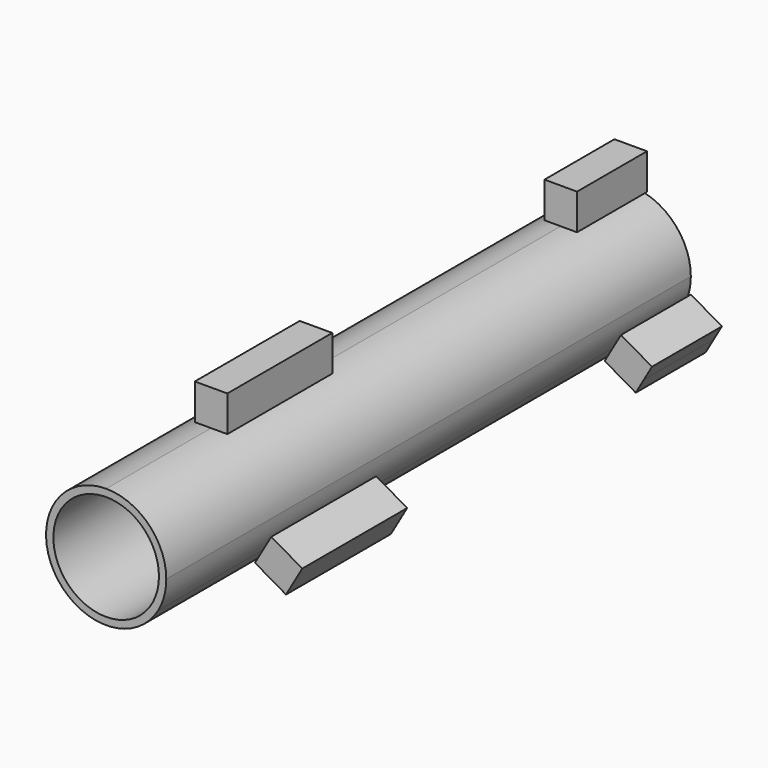
from build123d import *

# Parameters (mm, degrees)
F0_R      = 30.678650709
F1_DEPTH  = 381
F2_DEPTH  = 50.8
F3_START  = 177.8
F2_FACE_W = 18.9131628722
F2_FACE_H = 20.8084275999
F3_DEPTH  = 76.2


with BuildPart() as f1:
    # F0 (on Front) → F1 (new body)
    with BuildSketch(Plane.XZ):
        with BuildLine():
            ThreePointArc((30.2486148014, -17.4640458982), (33.7379459292, -9.040055366), (34.9280917964, 0))
            ThreePointArc((34.9280917964, 0), (24.6978905631, 24.6978905631), (0, 34.9280917964))
            ThreePointArc((0, 34.9280917964), (-30.2486148014, 17.4640458982), (-30.2486148014, -17.4640458982))
            ThreePointArc((-30.2486148014, -17.4640458982), (0, -34.9280917964), (30.2486148014, -17.4640458982))
        make_face()
        Circle(F0_R, mode=Mode.SUBTRACT)
    extrude(amount=F1_DEPTH)


with BuildPart() as f2:
    # F0 (on Front) → F2 (new body)
    with BuildSketch(Plane.XZ):
        Polygon((-9.4565814361, 34.9280917964), (0, 34.9280917964), (9.4565814361, 34.9280917964), (9.4565814361, 55.7365193963), (0, 55.7365193963), (-9.4565814361, 55.7365193963), align=None)
    extrude(amount=F2_DEPTH)


with BuildPart() as f2b:
    # F0 (on Front) → F2, piece 2 (new body)
    with BuildSketch(Plane.XZ):
        Polygon((34.9769055195, -9.2744061416), (30.2486148014, -17.4640458982), (25.5203240834, -25.6536856548), (43.5409509977, -36.0578994548), (48.2692417157, -27.8682596982), (52.9975324338, -19.6786199415), align=None)
    extrude(amount=F2_DEPTH)


with BuildPart() as f2c:
    # F0 (on Front) → F2, piece 3 (new body)
    with BuildSketch(Plane.XZ):
        Polygon((-25.5203240834, -25.6536856548), (-30.2486148014, -17.4640458982), (-34.9769055195, -9.2744061416), (-52.9975324338, -19.6786199415), (-48.2692417157, -27.8682596982), (-43.5409509977, -36.0578994548), align=None)
    extrude(amount=F2_DEPTH)


with BuildPart() as f3:
    # F2_face (on face) → F3 (new body)
    with BuildSketch(Plane(origin=(0, -50.8, 45.3323055964), x_dir=(1, 0, 0), z_dir=(0, -1, 0)).offset(F3_START)):
        Rectangle(F2_FACE_W, F2_FACE_H)
    extrude(amount=F3_DEPTH)


with BuildPart() as f3b:
    # F2_face (on face) → F3, piece 2 (new body)
    with BuildSketch(Plane(origin=(0, -50.8, 45.3323055964), x_dir=(1, 0, 0), z_dir=(0, -1, 0)).offset(F3_START)):
        Polygon((-43.5409509977, -81.3902050511), (-25.5203240834, -70.9859912512), (-34.9769055195, -54.6067117379), (-52.9975324338, -65.0109255379), align=None)
    extrude(amount=F3_DEPTH)


with BuildPart() as f3c:
    # F2_face (on face) → F3, piece 3 (new body)
    with BuildSketch(Plane(origin=(0, -50.8, 45.3323055964), x_dir=(1, 0, 0), z_dir=(0, -1, 0)).offset(F3_START)):
        Polygon((52.9975324338, -65.0109255379), (34.9769055195, -54.6067117379), (25.5203240834, -70.9859912512), (43.5409509977, -81.3902050511), align=None)
    extrude(amount=F3_DEPTH)


solid = Compound([f1.part, f2.part, f2b.part, f2c.part, f3.part, f3b.part, f3c.part])
